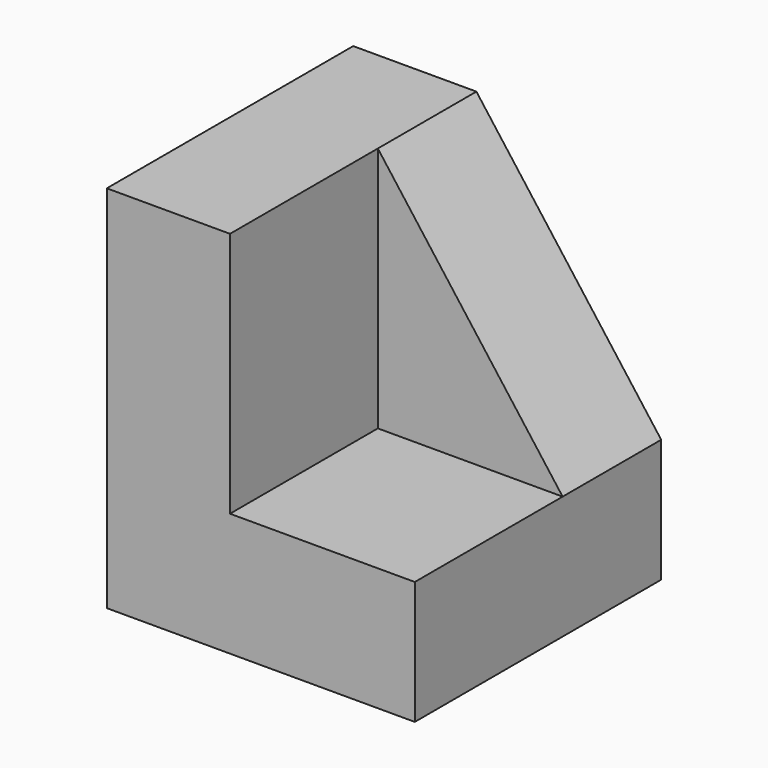
from build123d import *

# Parameters (mm, degrees)
F1_DEPTH = 1270
F2_DEPTH = 508


with BuildPart() as f1:
    # F0 (on Front) → F1 (new body)
    with BuildSketch(Plane.XZ):
        Polygon((0, 1524), (0, 0), (1270, 0), (1270, 508), (508, 508), (508, 1524), align=None)
    extrude(amount=F1_DEPTH)

    # F0 (on Front) → F2 (join)
    with BuildSketch(Plane.XZ):
        Polygon((0, 1524), (0, 0), (1270, 0), (1270, 508), (508, 508), (508, 1524), align=None)
        Polygon((508, 508), (1270, 508), (508, 1524), align=None)
    extrude(amount=F2_DEPTH)


solid = f1.part
